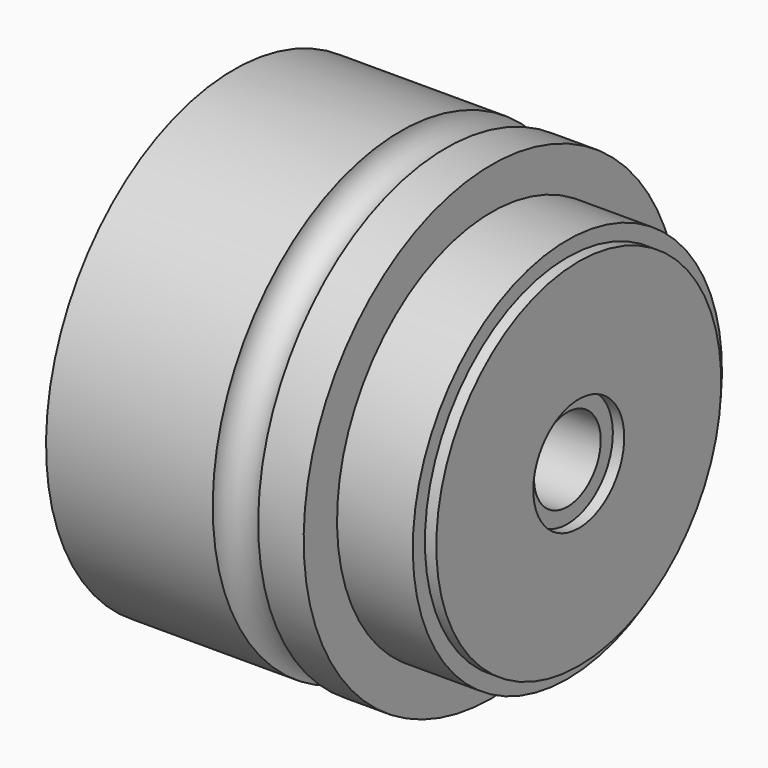
from build123d import *

# Parameters (mm, degrees)
F0_W   = 44
F0_H   = 62
F0_W_2 = 3
F0_H_2 = 32


with BuildPart() as f1:
    # F0 (on Front) → F1 (revolve)
    with BuildSketch(Plane.XZ):
        with Locations((22, 31)):
            Rectangle(F0_W, F0_H)
        with BuildLine():
            Line((44, 62), (44, 0))
            ThreePointArc((44, 0), (50, 6), (56, 0))
            Line((56, 0), (56, 62))
            ThreePointArc((56, 62), (50, 56), (44, 62))
        make_face()
        Polygon((56, 62), (56, 0), (68, 0), (68, 11), (68, 51), (68, 62), align=None)
        Polygon((68, 51), (68, 11), (88, 11), (88, 15), (88, 47), (88, 51), align=None)
        with Locations((89.5, 31)):
            Rectangle(F0_W_2, F0_H_2)
    revolve(axis=Axis((62, 0, 62), (1, 0, 0)))


solid = f1.part
